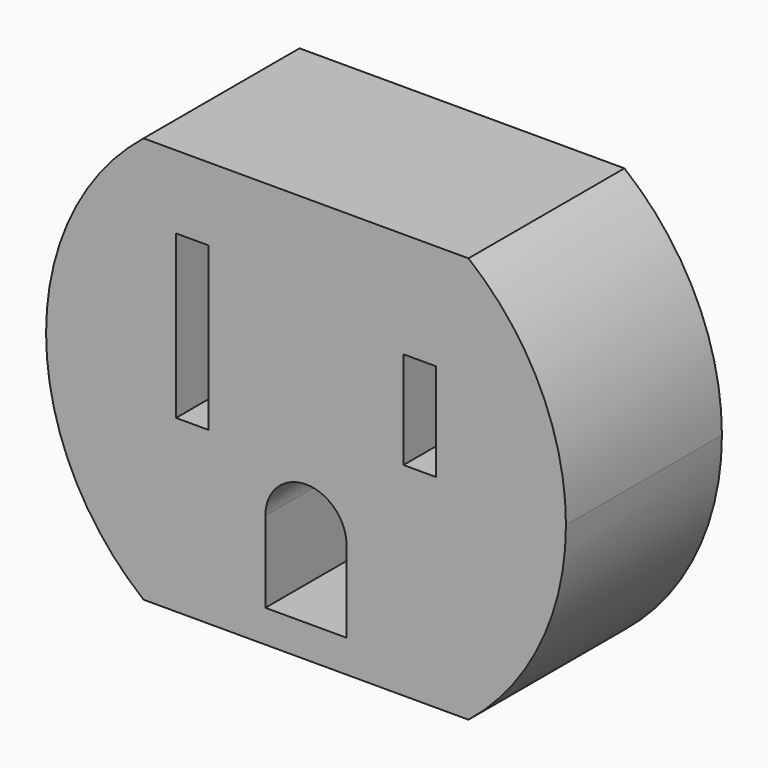
from build123d import *

# Parameters (mm, degrees)
F0_W     = 2.54
F0_H     = 3.81
F1_DEPTH = 15.24


with BuildPart() as f1:
    # F0 (on Front) → F1 (new body)
    with BuildSketch(Plane.XZ):
        Polygon((12.7, 0), (12.7, 15.875), (-12.7, 15.875), (-12.7, 3.81), (-10.16, 3.81), (-10.16, 10.16), (-7.62, 10.16), (-7.62, 3.81), (7.62, 3.81), (7.62, 7.62), (10.16, 7.62), (10.16, 0), align=None)
        with BuildLine():
            ThreePointArc((20.32, 0), (18.316343, 8.804545), (12.7, 15.875))
            Line((12.7, 15.875), (12.7, 0))
            Line((12.7, 0), (20.32, 0))
        make_face()
        Polygon((12.7, -15.875), (12.7, 0), (10.16, 0), (7.62, 0), (7.62, 3.81), (-7.62, 3.81), (-7.62, -2.54), (-10.16, -2.54), (-10.16, 0), (-12.7, 0), (-12.7, -15.875), (0, -15.875), align=None)
        with BuildLine():
            Line((3.175, -13.335), (0, -13.335))
            Line((0, -13.335), (-3.175, -13.335))
            Line((-3.175, -13.335), (-3.175, -6.985))
            ThreePointArc((-3.175, -6.985), (0, -3.81), (3.175, -6.985))
            Line((3.175, -6.985), (3.175, -13.335))
        make_face(mode=Mode.SUBTRACT)
        with BuildLine():
            Line((20.32, 0), (12.7, 0))
            Line((12.7, 0), (12.7, -15.875))
            ThreePointArc((12.7, -15.875), (18.316343, -8.804545), (20.32, 0))
        make_face()
        with Locations((-11.43, 1.905)):
            Rectangle(F0_W, F0_H)
        with BuildLine():
            Line((-12.7, 3.81), (-12.7, 15.875))
            ThreePointArc((-12.7, 15.875), (-18.316343, 8.804545), (-20.32, 0))
            Line((-20.32, 0), (-12.7, 0))
            Line((-12.7, 0), (-12.7, 3.81))
        make_face()
        with BuildLine():
            Line((-12.7, 0), (-20.32, 0))
            ThreePointArc((-20.32, 0), (-18.316343, -8.804545), (-12.7, -15.875))
            Line((-12.7, -15.875), (-12.7, 0))
        make_face()
    extrude(amount=F1_DEPTH)


solid = f1.part
